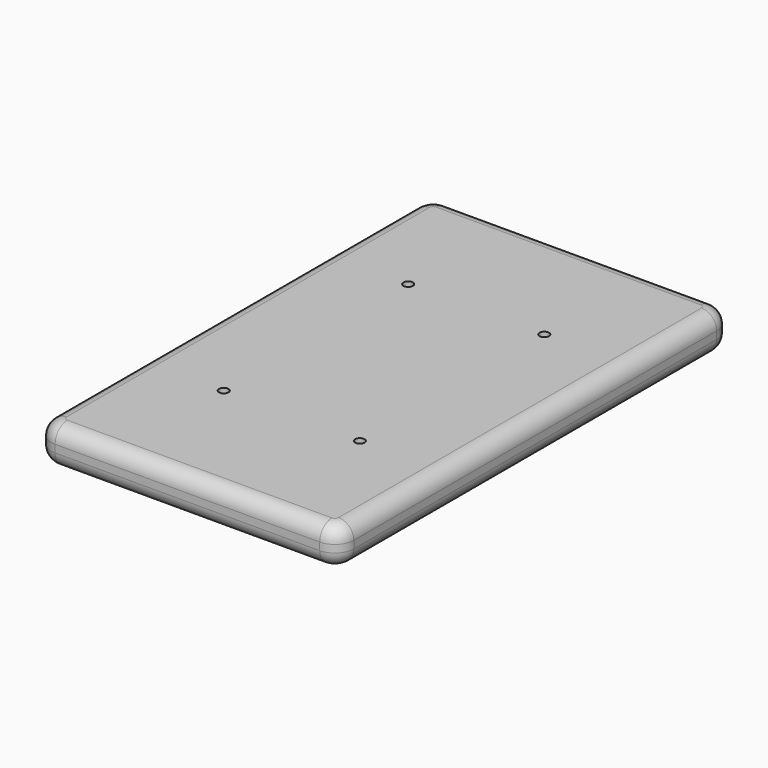
from build123d import *

# Parameters (mm, degrees)
F1_DEPTH = 12.7
F2_R     = 5.08
F3_R     = 1.5875
F4_DEPTH = 12.701


with BuildPart() as f1:
    # F0 (on Top) → F1 (new body)
    with BuildSketch(Plane.XY):
        with BuildLine():
            ThreePointArc((50.8, 76.2), (48.940128, 80.690128), (44.45, 82.55))
            Line((44.45, 82.55), (-44.45, 82.55))
            ThreePointArc((-44.45, 82.55), (-48.940128, 80.690128), (-50.8, 76.2))
            Line((-50.8, 76.2), (-50.8, -76.2))
            ThreePointArc((-50.8, -76.2), (-48.940128, -80.690128), (-44.45, -82.55))
            Line((-44.45, -82.55), (44.45, -82.55))
            ThreePointArc((44.45, -82.55), (48.940128, -80.690128), (50.8, -76.2))
            Line((50.8, -76.2), (50.8, 76.2))
        make_face()
    extrude(amount=F1_DEPTH)

    # F2
    f2_edges = [f1.edges().sort_by_distance(p)[0] for p in [
        (48.940128, 80.690128, 12.7),
        (0, 82.55, 12.7),
        (-48.940128, 80.690128, 12.7),
        (-50.8, 0, 12.7),
        (-48.940128, -80.690128, 12.7),
        (0, -82.55, 12.7),
        (48.940128, -80.690128, 12.7),
        (50.8, 0, 12.7),
        (48.940128, 80.690128, 0),
        (0, 82.55, 0),
        (-48.940128, 80.690128, 0),
        (-50.8, 0, 0),
        (-48.940128, -80.690128, 0),
        (0, -82.55, 0),
        (48.940128, -80.690128, 0),
        (50.8, 0, 0),
    ]]
    fillet(f2_edges, radius=F2_R)

    # F3 (on face) → F4 (cut, through all)
    with BuildSketch(Plane.XY.offset(12.7)):
        with Locations((-22.86, 38.735)):
            Circle(F3_R)
        with Locations((22.86, 38.735)):
            Circle(F3_R)
        with Locations((-22.86, -38.735)):
            Circle(F3_R)
        with Locations((22.86, -38.735)):
            Circle(F3_R)
    extrude(amount=-F4_DEPTH, mode=Mode.SUBTRACT)


solid = f1.part
